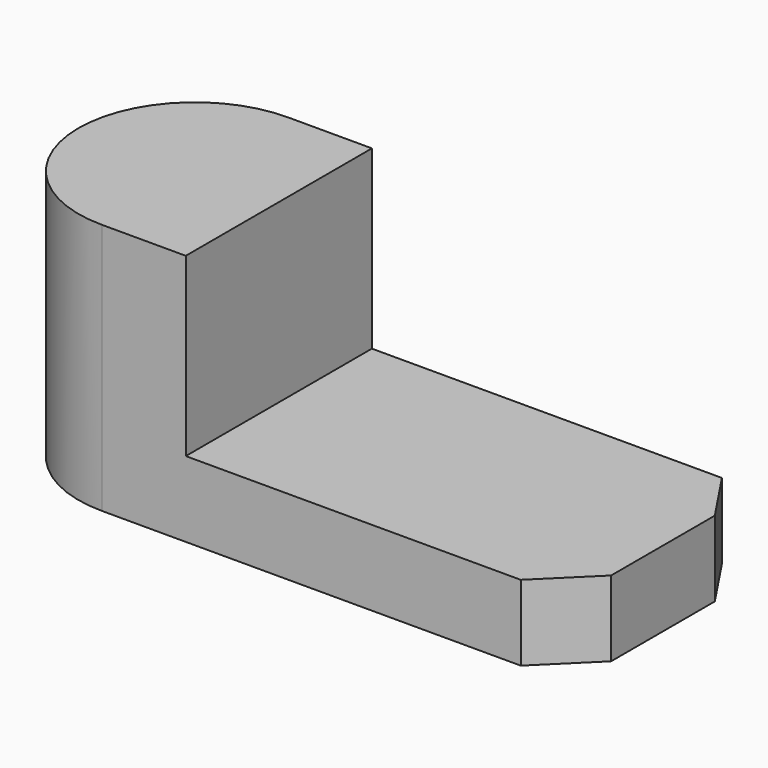
from build123d import *

# Parameters (mm, degrees)
F1_DEPTH = 9
F3_DEPTH = 21


with BuildPart() as f1:
    # F0 (on Top) → F1 (new body)
    with BuildSketch(Plane.XY):
        with BuildLine():
            ThreePointArc((0, 27.71285), (-13.856425, 13.856425), (0, 0))
            Line((0, 0), (49.899384, 0))
            Line((49.899384, 0), (55.913314, 5.932663))
            Line((55.913314, 5.932663), (55.913314, 21.37384))
            Line((55.913314, 21.37384), (51.687304, 27.71285))
            Line((51.687304, 27.71285), (0, 27.71285))
        make_face()
    extrude(amount=F1_DEPTH)

    # F2 (on face) → F3 (join)
    with BuildSketch(Plane.XY.offset(9)):
        with BuildLine():
            Line((10, 0), (10, 27.71285))
            Line((10, 27.71285), (0, 27.71285))
            ThreePointArc((0, 27.71285), (-13.856425, 13.856425), (0, 0))
            Line((0, 0), (10, 0))
        make_face()
    extrude(amount=F3_DEPTH)


solid = f1.part
